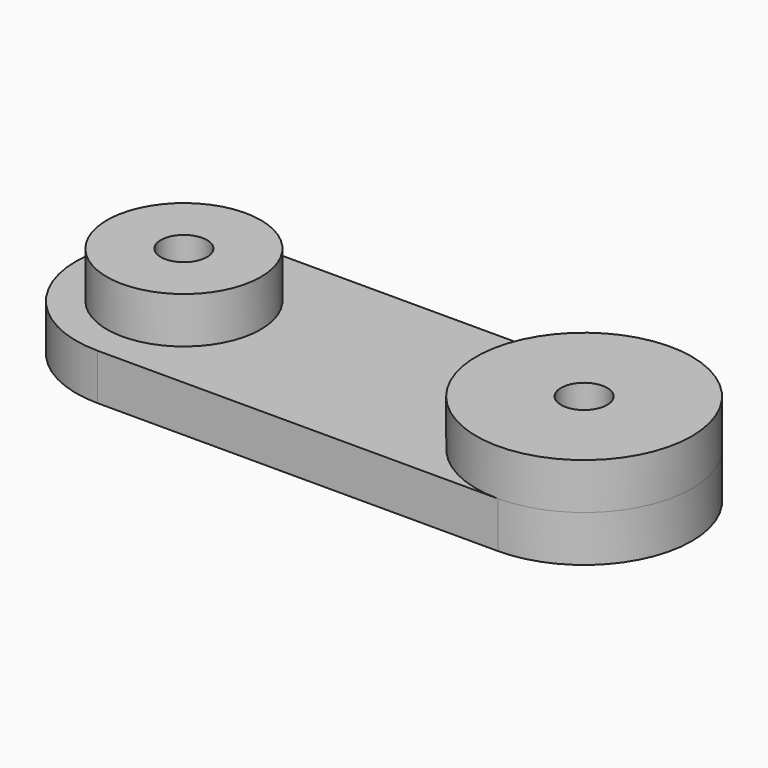
from build123d import *

# Parameters (mm, degrees)
PAD_DEPTH         = 3
SKETCH001_R       = 7
SKETCH001_R_2     = 5
PAD001_DEPTH      = 3
SKETCH002_R       = 1.5
POCKET_DEPTH      = 3.001
POCKET_DEPTH_BACK = -3.001


with BuildPart() as part:
    # Sketch → Pad (new body)
    with BuildSketch(Plane.XY):
        with BuildLine():
            ThreePointArc((0, 7), (-7, 0), (0, -7))
            Line((0, -7), (26, -7))
            ThreePointArc((26, -7), (33, 0), (26, 7))
            Line((0, 7), (26, 7))
        make_face()
    extrude(amount=-PAD_DEPTH)

    # Sketch001 → Pad001 (join)
    with BuildSketch(Plane.XY):
        with Locations((26, 0)):
            Circle(SKETCH001_R)
        Circle(SKETCH001_R_2)
    extrude(amount=PAD001_DEPTH)

    # Sketch002 → Pocket (cut, two sides)
    with BuildSketch(Plane.XY) as pocket_sk:
        Circle(SKETCH002_R)
        with Locations((26, 0)):
            Circle(SKETCH002_R)
    extrude(amount=-POCKET_DEPTH, mode=Mode.SUBTRACT)
    extrude(pocket_sk.sketch, amount=-POCKET_DEPTH_BACK, mode=Mode.SUBTRACT)


solid = part.part
